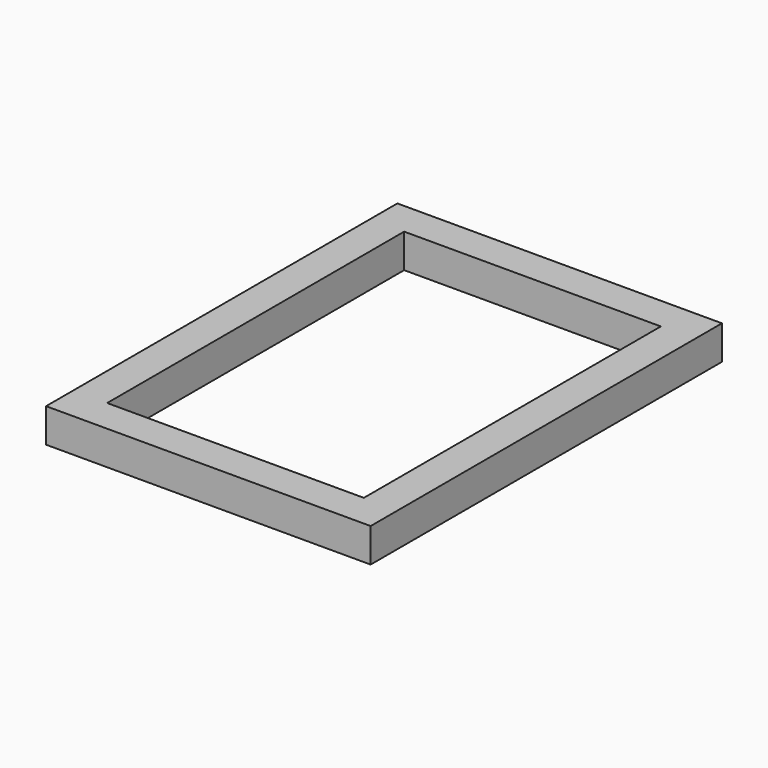
from build123d import *

# Parameters (mm, degrees)
F0_W     = 203.2
F0_H     = 2222.5
F1_DEPTH = 203.2


with BuildPart() as f1:
    # F0 (on Top) → F1 (new body)
    with BuildSketch(Plane.XY):
        Polygon((971.55, 1111.25), (971.55, 1314.45), (-971.55, 1314.45), (-971.55, 1111.25), (-768.35, 1111.25), (768.35, 1111.25), align=None)
        with Locations((869.95, 0)):
            Rectangle(F0_W, F0_H)
        Polygon((971.55, -1314.45), (971.55, -1111.25), (768.35, -1111.25), (-768.35, -1111.25), (-971.55, -1111.25), (-971.55, -1314.45), align=None)
        with Locations((-869.95, 0)):
            Rectangle(F0_W, F0_H)
    extrude(amount=F1_DEPTH)


solid = f1.part
